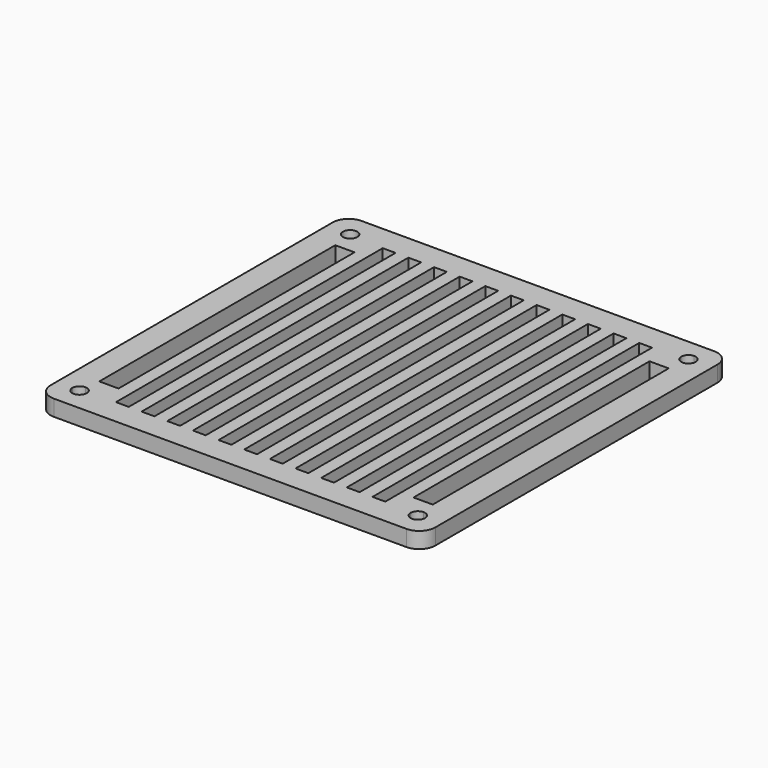
from build123d import *

# Parameters (mm, degrees)
F0_W     = 120
F0_H     = 120
F1_DEPTH = 5
F2_R     = 5
F3_R     = 2.25
F4_DEPTH = 25
F5_W     = 6
F5_H     = 92
F6_DEPTH = 25
F7_DEPTH = 25
F8_DEPTH = 25


with BuildPart() as f1:
    # F0 (on Top) → F1 (new body)
    with BuildSketch(Plane.XY):
        with Locations((3.6000026762, 0.4973127641)):
            Rectangle(F0_W, F0_H)
    extrude(amount=F1_DEPTH)

    # F2
    f2_edges = [f1.edges().sort_by_distance(p)[0] for p in [
        (-56.399997, 60.497313, 2.5),
        (63.600003, 60.497313, 2.5),
        (63.600003, -59.502687, 2.5),
        (-56.399997, -59.502687, 2.5),
    ]]
    fillet(f2_edges, radius=F2_R)

    # F3 (on face) → F4 (cut)
    with BuildSketch(Plane.XY.offset(5)):
        with Locations((-49.1499973238, 53.2473127641)):
            Circle(F3_R)
        with BuildLine():
            ThreePointArc((56.3500026762, 50.9973127641), (57.9409929339, 51.6563225064), (58.6000026762, 53.2473127641))
            Line((58.6000026762, 53.2473127641), (56.3500026762, 53.2473127641))
            Line((56.3500026762, 53.2473127641), (56.3500026762, 50.9973127641))
        make_face()
        with BuildLine():
            Line((56.3500026762, 53.2473127641), (58.6000026762, 53.2473127641))
            ThreePointArc((58.6000026762, 53.2473127641), (57.9409929339, 54.8383030217), (56.3500026762, 55.4973127641))
            Line((56.3500026762, 55.4973127641), (56.3500026762, 53.2473127641))
        make_face()
        with BuildLine():
            Line((56.3500026762, 50.9973127641), (56.3500026762, 53.2473127641))
            Line((56.3500026762, 53.2473127641), (54.1000026762, 53.2473127641))
            ThreePointArc((54.1000026762, 53.2473127641), (54.7590124186, 51.6563225064), (56.3500026762, 50.9973127641))
        make_face()
        with BuildLine():
            Line((54.1000026762, 53.2473127641), (56.3500026762, 53.2473127641))
            Line((56.3500026762, 53.2473127641), (56.3500026762, 55.4973127641))
            ThreePointArc((56.3500026762, 55.4973127641), (54.7590124186, 54.8383030217), (54.1000026762, 53.2473127641))
        make_face()
        with BuildLine():
            ThreePointArc((-51.3999973238, -52.2526872359), (-50.7409875814, -53.8436774936), (-49.1499973238, -54.5026872359))
            Line((-49.1499973238, -54.5026872359), (-49.1499973238, -52.2526872359))
            Line((-49.1499973238, -52.2526872359), (-51.3999973238, -52.2526872359))
        make_face()
        with BuildLine():
            Line((-49.1499973238, -52.2526872359), (-49.1499973238, -54.5026872359))
            ThreePointArc((-49.1499973238, -54.5026872359), (-47.5590070661, -53.8436774936), (-46.8999973238, -52.2526872359))
            Line((-46.8999973238, -52.2526872359), (-49.1499973238, -52.2526872359))
        make_face()
        with BuildLine():
            Line((-51.3999973238, -52.2526872359), (-49.1499973238, -52.2526872359))
            Line((-49.1499973238, -52.2526872359), (-49.1499973238, -50.0026872359))
            ThreePointArc((-49.1499973238, -50.0026872359), (-50.7409875814, -50.6616969783), (-51.3999973238, -52.2526872359))
        make_face()
        with BuildLine():
            Line((-49.1499973238, -50.0026872359), (-49.1499973238, -52.2526872359))
            Line((-49.1499973238, -52.2526872359), (-46.8999973238, -52.2526872359))
            ThreePointArc((-46.8999973238, -52.2526872359), (-47.5590070661, -50.6616969783), (-49.1499973238, -50.0026872359))
        make_face()
        with BuildLine():
            ThreePointArc((54.1000026762, -52.2526872359), (54.7590124186, -53.8436774936), (56.3500026762, -54.5026872359))
            Line((56.3500026762, -54.5026872359), (56.3500026762, -52.2526872359))
            Line((56.3500026762, -52.2526872359), (54.1000026762, -52.2526872359))
        make_face()
        with BuildLine():
            Line((56.3500026762, -52.2526872359), (56.3500026762, -54.5026872359))
            ThreePointArc((56.3500026762, -54.5026872359), (57.9409929339, -53.8436774936), (58.6000026762, -52.2526872359))
            Line((58.6000026762, -52.2526872359), (56.3500026762, -52.2526872359))
        make_face()
        with BuildLine():
            Line((54.1000026762, -52.2526872359), (56.3500026762, -52.2526872359))
            Line((56.3500026762, -52.2526872359), (56.3500026762, -50.0026872359))
            ThreePointArc((56.3500026762, -50.0026872359), (54.7590124186, -50.6616969783), (54.1000026762, -52.2526872359))
        make_face()
        with BuildLine():
            Line((56.3500026762, -50.0026872359), (56.3500026762, -52.2526872359))
            Line((56.3500026762, -52.2526872359), (58.6000026762, -52.2526872359))
            ThreePointArc((58.6000026762, -52.2526872359), (57.9409929339, -50.6616969783), (56.3500026762, -50.0026872359))
        make_face()
    extrude(amount=-F4_DEPTH, mode=Mode.SUBTRACT)

    # F5 (on face) → F6 (cut)
    with BuildSketch(Plane.XY.offset(5)):
        with Locations((-45.3999973238, 0.4973127641)):
            Rectangle(F5_W, F5_H)
    extrude(amount=-F6_DEPTH, mode=Mode.SUBTRACT)

    # F5 (on face) → F7 (cut)
    with BuildSketch(Plane.XY.offset(5)):
        Polygon((-34.3999973238, 52.4973127641), (-38.3999973238, 52.4973127641), (-38.3999973238, 46.4973127641), (-38.3999973238, -45.5026872359), (-38.3999973238, -51.5026872359), (-34.3999973238, -51.5026872359), (-34.3999973238, -45.5026872359), (-34.3999973238, 46.4973127641), align=None)
        Polygon((-26.3999973238, 52.4973127641), (-30.3999973238, 52.4973127641), (-30.3999973238, 46.4973127641), (-30.3999973238, -45.5026872359), (-30.3999973238, -51.5026872359), (-26.3999973238, -51.5026872359), (-26.3999973238, -45.5026872359), (-26.3999973238, 46.4973127641), align=None)
        Polygon((-18.3999973238, 52.4973127641), (-22.3999973238, 52.4973127641), (-22.3999973238, 46.4973127641), (-22.3999973238, -45.5026872359), (-22.3999973238, -51.5026872359), (-18.3999973238, -51.5026872359), (-18.3999973238, -45.5026872359), (-18.3999973238, 46.4973127641), align=None)
        Polygon((-10.3999973238, 52.4973127641), (-14.3999973238, 52.4973127641), (-14.3999973238, 46.4973127641), (-14.3999973238, -45.5026872359), (-14.3999973238, -51.5026872359), (-10.3999973238, -51.5026872359), (-10.3999973238, -45.5026872359), (-10.3999973238, 46.4973127641), align=None)
        Polygon((-2.3999973238, 52.4973127641), (-6.3999973238, 52.4973127641), (-6.3999973238, 46.4973127641), (-6.3999973238, -45.5026872359), (-6.3999973238, -51.5026872359), (-2.3999973238, -51.5026872359), (-2.3999973238, -45.5026872359), (-2.3999973238, 46.4973127641), align=None)
        Polygon((5.6000026762, 52.4973127641), (1.6000026762, 52.4973127641), (1.6000026762, 46.4973127641), (1.6000026762, -45.5026872359), (1.6000026762, -51.5026872359), (5.6000026762, -51.5026872359), (5.6000026762, -45.5026872359), (5.6000026762, 46.4973127641), align=None)
        Polygon((13.6000026762, 46.4973127641), (13.6000026762, 52.4973127641), (9.6000026762, 52.4973127641), (9.6000026762, 46.4973127641), (9.6000026762, -45.5026872359), (9.6000026762, -51.5026872359), (13.6000026762, -51.5026872359), (13.6000026762, -45.5026872359), align=None)
        Polygon((21.6000026762, 46.4973127641), (21.6000026762, 52.4973127641), (17.6000026762, 52.4973127641), (17.6000026762, 46.4973127641), (17.6000026762, -45.5026872359), (17.6000026762, -51.5026872359), (21.6000026762, -51.5026872359), (21.6000026762, -45.5026872359), align=None)
        Polygon((29.6000026762, 46.4973127641), (29.6000026762, 52.4973127641), (25.6000026762, 52.4973127641), (25.6000026762, 46.4973127641), (25.6000026762, -45.5026872359), (25.6000026762, -51.5026872359), (29.6000026762, -51.5026872359), (29.6000026762, -45.5026872359), align=None)
        Polygon((37.6000026762, 46.4973127641), (37.6000026762, 52.4973127641), (33.6000026762, 52.4973127641), (33.6000026762, 46.4973127641), (33.6000026762, -45.5026872359), (33.6000026762, -51.5026872359), (37.6000026762, -51.5026872359), (37.6000026762, -45.5026872359), align=None)
        Polygon((45.6000026762, 46.4973127641), (45.6000026762, 52.4973127641), (41.6000026762, 52.4973127641), (41.6000026762, 46.4973127641), (41.6000026762, -45.5026872359), (41.6000026762, -51.5026872359), (45.6000026762, -51.5026872359), (45.6000026762, -45.5026872359), align=None)
    extrude(amount=-F7_DEPTH, mode=Mode.SUBTRACT)

    # F5 (on face) → F8 (cut)
    with BuildSketch(Plane.XY.offset(5)):
        with Locations((52.6000026762, 0.4973127641)):
            Rectangle(F5_W, F5_H)
    extrude(amount=-F8_DEPTH, mode=Mode.SUBTRACT)


solid = f1.part
